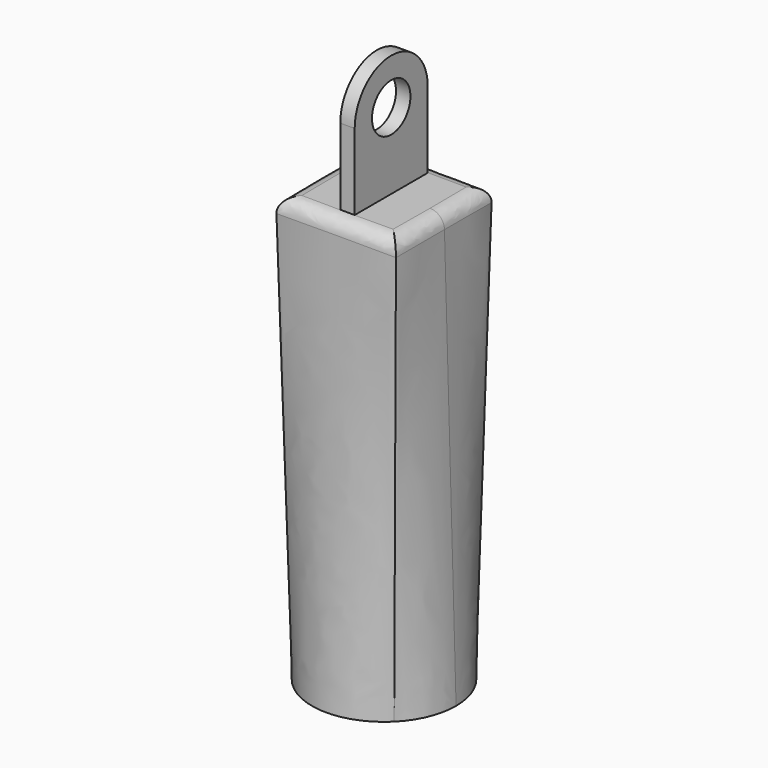
from build123d import *

# Parameters (mm, degrees)
F0_R     = 15
F2_W     = 25
F2_H     = 25
F4_R     = 3
F5_R     = 5
F6_DEPTH = 1.5
F7_R     = 4
F8_DEPTH = 20


with BuildPart() as f3:
    # F0 (on Top) → F3 section 0
    with BuildSketch(Plane.XY):
        Circle(F0_R)
    # F2 (on offset) → F3 section 1
    with BuildSketch(Plane.XY.offset(89.4)):
        Rectangle(F2_W, F2_H)
    loft()

    # F4
    f4_edges = [f3.edges().sort_by_distance(p)[0] for p in [
        (12.5, 6.25, 89.4),
        (12.5, -6.25, 89.4),
        (0, 12.5, 89.4),
        (-12.5, 0, 89.4),
        (0, -12.5, 89.4),
    ]]
    fillet(f4_edges, radius=F4_R)

    # F5 (on Right) → F6 (join, symmetric)
    with BuildSketch(Plane.YZ):
        with BuildLine():
            Line((9.5, 83.3456217407), (9.5, 105.2605534294))
            ThreePointArc((9.5, 105.2605534294), (0, 95.7605534294), (-9.5, 105.2605534294))
            Line((-9.5, 105.2605534294), (-9.5, 83.3456217407))
            Line((-9.5, 83.3456217407), (9.5, 83.3456217407))
        make_face()
        with BuildLine():
            ThreePointArc((-9.5, 105.2605534294), (0, 95.7605534294), (9.5, 105.2605534294))
            ThreePointArc((9.5, 105.2605534294), (0, 114.7605534294), (-9.5, 105.2605534294))
        make_face()
        with Locations((0, 105.2605534294)):
            Circle(F5_R, mode=Mode.SUBTRACT)
    extrude(amount=F6_DEPTH, both=True)

    # F7 (on Top) → F8 (cut)
    with BuildSketch(Plane.XY):
        Circle(F7_R)
    extrude(amount=F8_DEPTH, mode=Mode.SUBTRACT)


solid = f3.part
